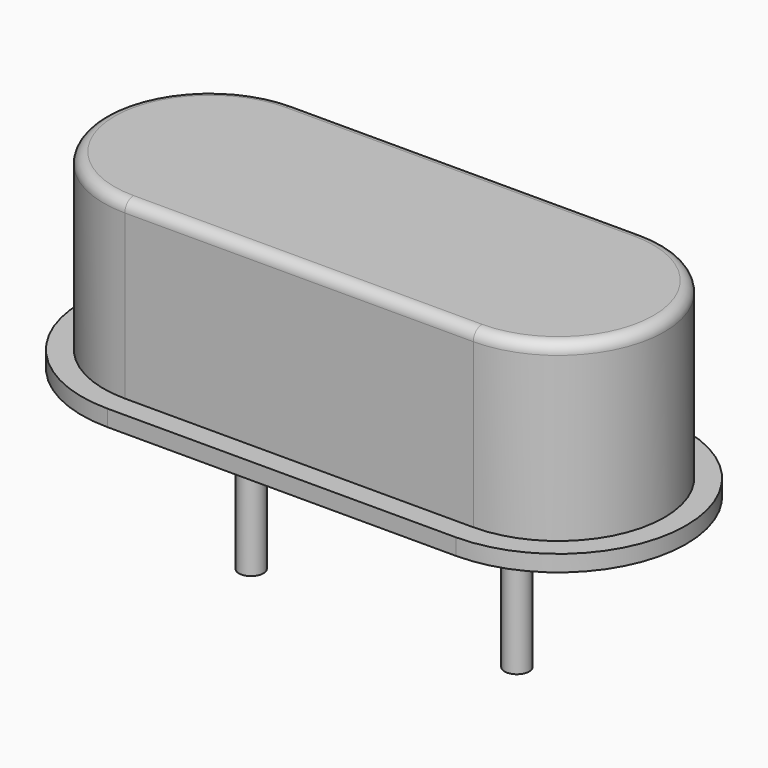
from build123d import *

# Parameters (mm, degrees)
F1_DEPTH = 0.3
F3_DEPTH = 3.2
F4_R     = 0.2
F5_R     = 0.225
F6_DEPTH = 3


with BuildPart() as f1:
    # F0 (on Top) → F1 (new body)
    with BuildSketch(Plane.XY):
        with BuildLine():
            Line((3.2, 2.35), (-3.2, 2.35))
            ThreePointArc((-3.2, 2.35), (-5.55, 0), (-3.2, -2.35))
            Line((-3.2, -2.35), (3.2, -2.35))
            ThreePointArc((3.2, -2.35), (5.55, 0), (3.2, 2.35))
        make_face()
    extrude(amount=F1_DEPTH)

    # F2 (on face) → F3 (join)
    with BuildSketch(Plane.XY.offset(0.3)):
        with BuildLine():
            Line((3.2, 1.95), (-3.2, 1.95))
            ThreePointArc((-3.2, 1.95), (-5.15, 0), (-3.2, -1.95))
            Line((-3.2, -1.95), (3.2, -1.95))
            ThreePointArc((3.2, -1.95), (5.15, 0), (3.2, 1.95))
        make_face()
    extrude(amount=F3_DEPTH)

    # F4
    f4_edges = [f1.edges().sort_by_distance(p)[0] for p in [
        (0, 1.95, 3.5),
        (-5.15, 0, 3.5),
        (0, -1.95, 3.5),
        (5.15, 0, 3.5),
    ]]
    fillet(f4_edges, radius=F4_R)

    # F5 (on face) → F6 (join)
    with BuildSketch(Plane(origin=(0, 0, 0), x_dir=(1, 0, 0), z_dir=(0, 0, -1))):
        with Locations((-2.44, 0)):
            Circle(F5_R)
        with Locations((2.44, 0)):
            Circle(F5_R)
    extrude(amount=F6_DEPTH)


solid = f1.part
